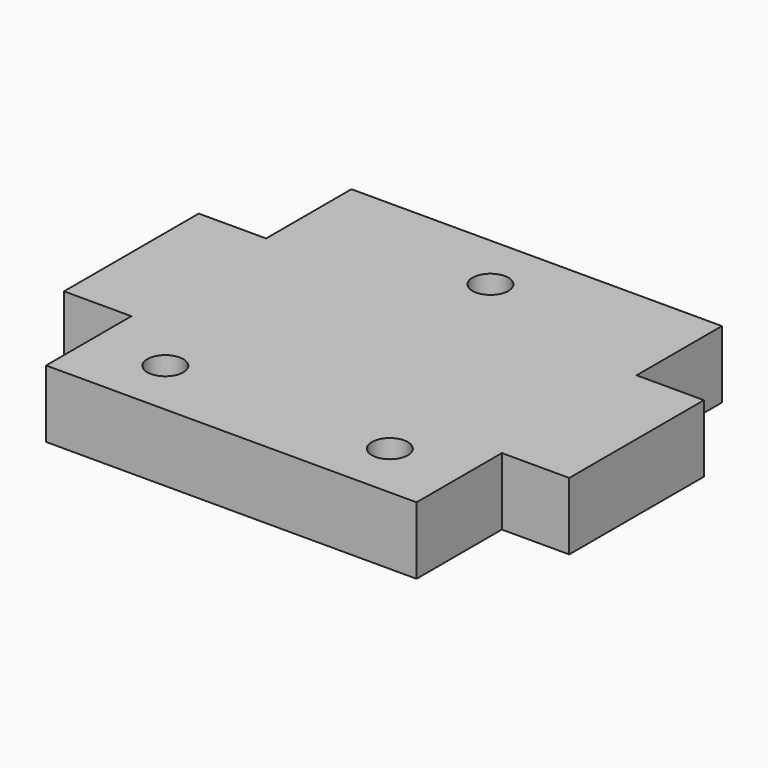
from build123d import *

# Parameters (mm, degrees)
F0_W     = 33
F0_H     = 34
F1_DEPTH = 6
F3_W     = 6
F3_H     = 15
F4_DEPTH = 6
F2_R     = 1.6
F5_DEPTH = 6


with BuildPart() as f1:
    # F0 (on Top) → F1 (new body)
    with BuildSketch(Plane.XY):
        Rectangle(F0_W, F0_H)
    extrude(amount=F1_DEPTH)

    # F3 (on Top) → F4 (join)
    with BuildSketch(Plane.XY):
        with Locations((-19.5, 0)):
            Rectangle(F3_W, F3_H)
        with Locations((19.5, 0)):
            Rectangle(F3_W, F3_H)
    extrude(amount=F4_DEPTH)

    # F2 (on face) → F5 (cut, through all)
    with BuildSketch(Plane.XY.offset(6)):
        with Locations((-10, -11.85)):
            Circle(F2_R)
        with Locations((10, -11.85)):
            Circle(F2_R)
        with Locations((0, 11.85)):
            Circle(F2_R)
    extrude(amount=-F5_DEPTH, mode=Mode.SUBTRACT)


solid = f1.part
